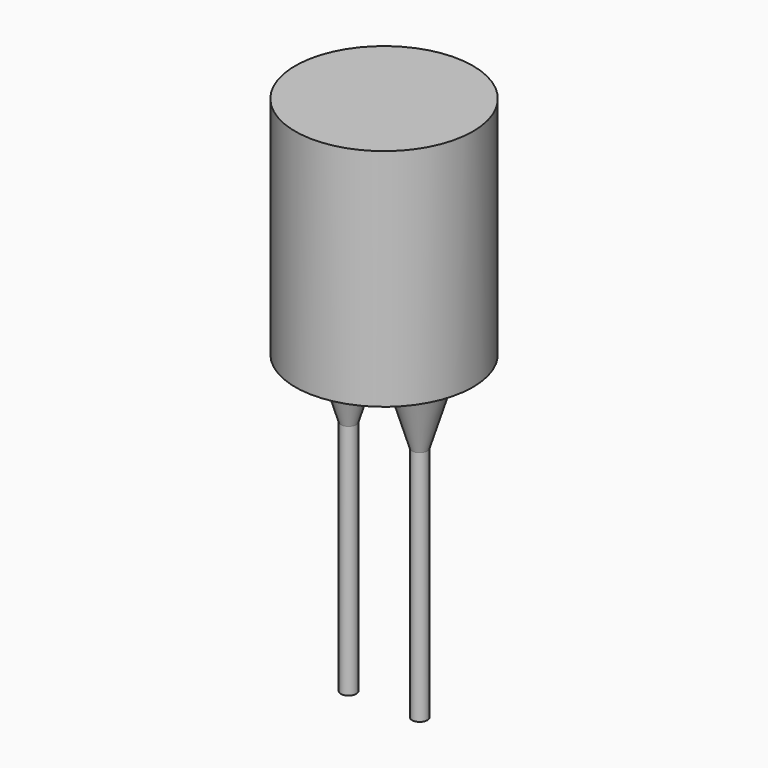
from build123d import *

# Parameters (mm, degrees)
CYLINDER001_R     = 0.325
CYLINDER001_DEPTH = 10
CYLINDER002_R     = 0.325
CYLINDER002_DEPTH = 10
CYLINDER_R        = 3.75
CYLINDER_DEPTH    = 9.5


with BuildPart() as obj1:
    # Cylinder001 → Cylinder001 (new body)
    with BuildSketch(Plane(origin=(-9, 0, -10), x_dir=(1, 0, 0), z_dir=(0, 0, 1))):
        Circle(CYLINDER001_R)
    extrude(amount=CYLINDER001_DEPTH)


with BuildPart() as fusion:
    # Cone → Cone (revolve)
    with BuildSketch(Plane(origin=(-9, 0, 0), x_dir=(1, 0, 0), z_dir=(0, -1, 0))):
        Polygon((0, 0), (0.325, 0), (1.25, 3), (0, 3), align=None)
    revolve(axis=Axis((-9, 0, 0), (0, 0, 1)))

    # Fusion: union obj1
    add(obj1.part)


with BuildPart() as fusion_1:
    # Fusion placement: moved
    add(fusion.part.moved(Location((10.5, 0, -3))))


with BuildPart() as obj2:
    # Cylinder002 → Cylinder002 (new body)
    with BuildSketch(Plane(origin=(-9, 0, -10), x_dir=(1, 0, 0), z_dir=(0, 0, 1))):
        Circle(CYLINDER002_R)
    extrude(amount=CYLINDER002_DEPTH)


with BuildPart() as fusion001:
    # Cone001 → Cone001 (revolve)
    with BuildSketch(Plane(origin=(-9, 0, 0), x_dir=(1, 0, 0), z_dir=(0, -1, 0))):
        Polygon((0, 0), (0.325, 0), (1.25, 3), (0, 3), align=None)
    revolve(axis=Axis((-9, 0, 0), (0, 0, 1)))

    # Fusion001: union obj2
    add(obj2.part)


with BuildPart() as fusion001_1:
    # Fusion001 placement: moved
    add(fusion001.part.moved(Location((7.5, 0, -3))))


with BuildPart() as fusion002:
    # Cylinder → Cylinder (new body)
    with BuildSketch(Plane.XY):
        Circle(CYLINDER_R)
    extrude(amount=CYLINDER_DEPTH)

    # Fusion002: union Fusion, Fusion001
    add(fusion_1.part)
    add(fusion001_1.part)


solid = fusion002.part
